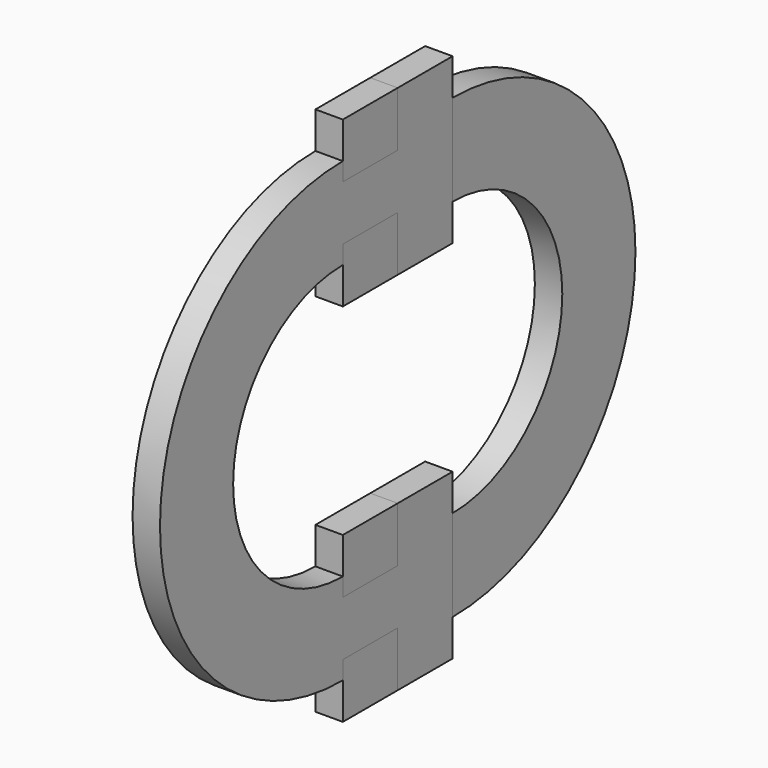
from build123d import *

# Parameters (mm, degrees)
F2_DEPTH = 0.6


with BuildPart() as f2:
    # F1 (on offset) → F2 (new body)
    with BuildSketch(Plane.YZ.offset(7.5)):
        with BuildLine():
            Line((0, -4.6), (0, -5))
            ThreePointArc((0, -5), (5, 0), (0, 5))
            Line((0, 5), (0, 4.6))
            Line((0, 4.6), (-1.5, 4.6))
            Line((-1.5, 4.6), (-1.5, 5.8))
            Line((-1.5, 5.8), (-3, 5.8))
            Line((-3, 5.8), (-3, 2.2))
            Line((-3, 2.2), (-1.5, 2.2))
            Line((-1.5, 2.2), (-1.5, 3.4))
            Line((-1.5, 3.4), (0, 3.4))
            Line((0, 3.4), (0, 3))
            ThreePointArc((0, 3), (3, 0), (0, -3))
            Line((0, -3), (0, -3.4))
            Line((0, -3.4), (-1.5, -3.4))
            Line((-1.5, -3.4), (-1.5, -2.2))
            Line((-1.5, -2.2), (-3, -2.2))
            Line((-3, -2.2), (-3, -5.8))
            Line((-3, -5.8), (-1.5, -5.8))
            Line((-1.5, -5.8), (-1.5, -4.6))
            Line((-1.5, -4.6), (0, -4.6))
        make_face()
    extrude(amount=F2_DEPTH)


with BuildPart() as f4_1:
    # F4: instance of F2
    add(f2.part.mirror(Plane(origin=(7.5, -1.5, 3.4), x_dir=(1, 0, 0), z_dir=(0, -1, 0))))


solid = Compound([f2.part, f4_1.part])
